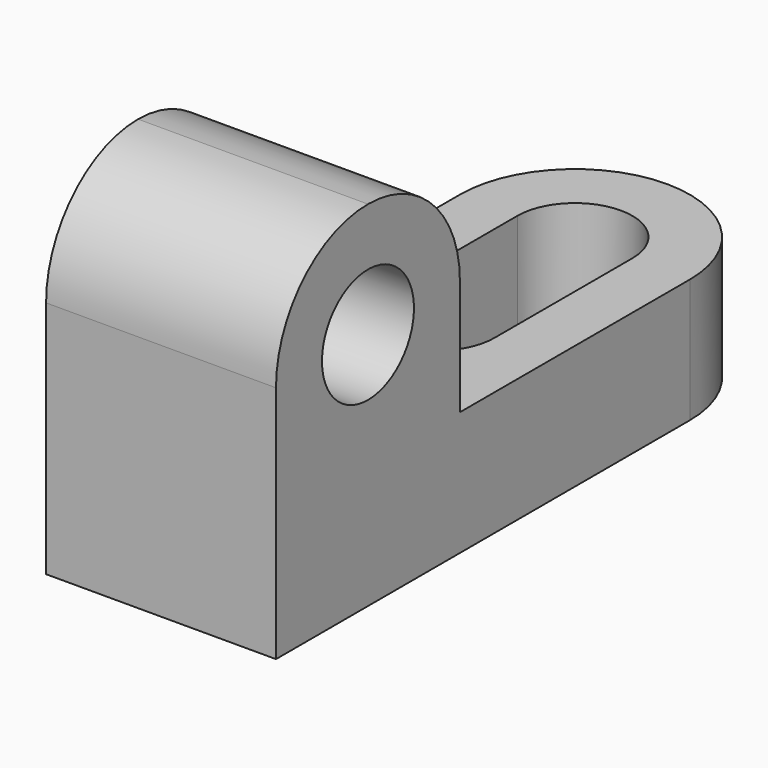
from build123d import *

# Parameters (mm, degrees)
F0_W     = 69.85
F0_H     = 39.0903693825
F1_DEPTH = 25.4
F2_W     = 44.45
F2_H     = 25.4
F3_DEPTH = 25.4
F5_DEPTH = 25.4
F7_DEPTH = 25.4


with BuildPart() as f1:
    # F0 (on Right) → F1 (new body)
    with BuildSketch(Plane.YZ):
        with Locations((-0.1859475348, -10.3888954036)):
            Rectangle(F0_W, F0_H)
    extrude(amount=F1_DEPTH)

    # F2 (on face) → F3 (cut)
    with BuildSketch(Plane.YZ.offset(25.4)):
        with Locations((12.5140524652, -3.5437107123)):
            Rectangle(F2_W, F2_H)
    extrude(amount=-F3_DEPTH, mode=Mode.SUBTRACT)

    # F4 (on face) → F5 (cut)
    with BuildSketch(Plane.YZ.offset(25.4)):
        with BuildLine():
            Line((-9.7109475348, 9.1562892877), (-22.4109475348, 9.1562892877))
            ThreePointArc((-22.4109475348, 9.1562892877), (-13.4306914137, 5.4365454087), (-9.7109475348, -3.5437107123))
            Line((-9.7109475348, -3.5437107123), (-9.7109475348, 9.1562892877))
        make_face()
        with BuildLine():
            Line((-22.4109475348, 9.1562892877), (-35.1109475348, 9.1562892877))
            Line((-35.1109475348, 9.1562892877), (-35.1109475348, -3.5437107123))
            ThreePointArc((-35.1109475348, -3.5437107123), (-31.3912036558, 5.4365454087), (-22.4109475348, 9.1562892877))
        make_face()
        with BuildLine():
            ThreePointArc((-16.0609475348, -3.5437107123), (-22.4109475348, 2.8062892877), (-28.7609475348, -3.5437107123))
            Line((-28.7609475348, -3.5437107123), (-16.0609475348, -3.5437107123))
        make_face()
        with BuildLine():
            Line((-16.0609475348, -3.5437107123), (-28.7609475348, -3.5437107123))
            ThreePointArc((-28.7609475348, -3.5437107123), (-22.4109475348, -9.8937107123), (-16.0609475348, -3.5437107123))
        make_face()
    extrude(amount=-F5_DEPTH, mode=Mode.SUBTRACT)

    # F6 (on face) → F7 (cut)
    with BuildSketch(Plane.XY.offset(-16.2437107123)):
        with BuildLine():
            Line((12.7, 34.7390524652), (0, 34.7390524652))
            Line((0, 34.7390524652), (0, 22.0390524652))
            ThreePointArc((0, 22.0390524652), (3.7197438789, 31.0193085863), (12.7, 34.7390524652))
        make_face()
        with BuildLine():
            Line((25.4, 34.7390524652), (12.7, 34.7390524652))
            ThreePointArc((12.7, 34.7390524652), (21.6802561211, 31.0193085863), (25.4, 22.0390524652))
            Line((25.4, 22.0390524652), (25.4, 34.7390524652))
        make_face()
        with BuildLine():
            ThreePointArc((19.05, 22.0390524652), (12.7, 28.3890524652), (6.35, 22.0390524652))
            Line((6.35, 22.0390524652), (19.05, 22.0390524652))
        make_face()
        Polygon((19.05, 22.0390524652), (6.35, 22.0390524652), (6.35, 11.0405298372), (6.35, 2.9890524652), (19.05, 2.9890524652), (19.05, 11.0405298372), align=None)
        with BuildLine():
            Line((19.05, 2.9890524652), (6.35, 2.9890524652))
            ThreePointArc((6.35, 2.9890524652), (12.7, -3.3609475348), (19.05, 2.9890524652))
        make_face()
    extrude(amount=-F7_DEPTH, mode=Mode.SUBTRACT)


solid = f1.part
